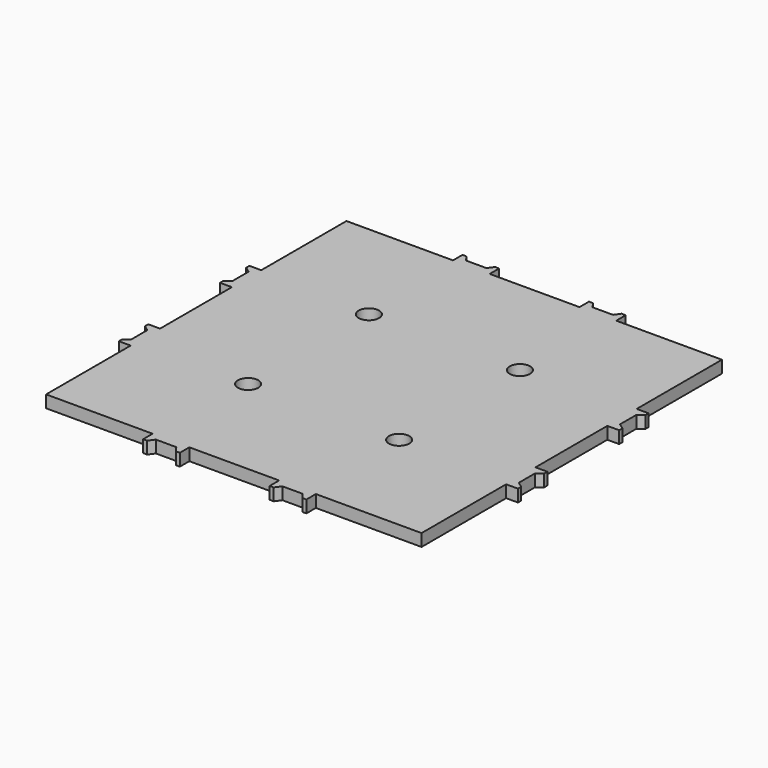
from build123d import *

# Parameters (mm, degrees)
F1_DEPTH = 6
F2_R     = 5
F3_DEPTH = 6


with BuildPart() as f1:
    # F0 (on Top) → F1 (new body)
    with BuildSketch(Plane.XY):
        Polygon((-72.277172, 94.969291), (-124.477172, 94.969291), (-124.477172, 42.769291), (-130.277172, 42.769291), (-130.277172, 40.769291), (-127.477172, 38.769291), (-127.477172, 28.769291), (-130.277172, 26.769291), (-130.277172, 24.769291), (-124.477172, 24.769291), (-124.477172, -19.230709), (-130.277172, -19.230709), (-130.277172, -21.230709), (-127.477172, -23.230709), (-127.477172, -33.230709), (-130.277172, -35.230709), (-130.277172, -37.230709), (-124.477172, -37.230709), (-124.477172, -89.030709), (-72.277172, -89.030709), (-72.277172, -94.830709), (-70.277172, -94.830709), (-68.277172, -92.030709), (-58.277172, -92.030709), (-56.277172, -94.830709), (-54.277172, -94.830709), (-54.277172, -89.030709), (-10.277172, -89.030709), (-10.277172, -94.830709), (-8.277172, -94.830709), (-6.277172, -92.030709), (3.722828, -92.030709), (5.722828, -94.830709), (7.722828, -94.830709), (7.722828, -89.030709), (59.522828, -89.030709), (59.522828, -37.230709), (65.322828, -37.230709), (65.322828, -35.230709), (62.522828, -33.230709), (62.522828, -23.230709), (65.322828, -21.230709), (65.322828, -19.230709), (59.522828, -19.230709), (59.522828, 24.769291), (65.322828, 24.769291), (65.322828, 26.769291), (62.522828, 28.769291), (62.522828, 38.769291), (65.322828, 40.769291), (65.322828, 42.769291), (59.522828, 42.769291), (59.522828, 94.969291), (7.722828, 94.969291), (7.722828, 100.769291), (5.722828, 100.769291), (3.722828, 97.969291), (-6.277172, 97.969291), (-8.277172, 100.769291), (-10.277172, 100.769291), (-10.277172, 94.969291), (-54.277172, 94.969291), (-54.277172, 100.769291), (-56.277172, 100.769291), (-58.277172, 97.969291), (-68.277172, 97.969291), (-70.277172, 100.769291), (-72.277172, 100.769291), align=None)
    extrude(amount=F1_DEPTH)

    # F2 (on face) → F3 (cut)
    with BuildSketch(Plane.XY.offset(6)):
        with Locations((-69.477172, 39.969291)):
            Circle(F2_R)
        with Locations((4.522828, 39.969291)):
            Circle(F2_R)
        with Locations((4.522828, -34.030709)):
            Circle(F2_R)
        with Locations((-69.477172, -34.030709)):
            Circle(F2_R)
    extrude(amount=-F3_DEPTH, mode=Mode.SUBTRACT)


solid = f1.part
